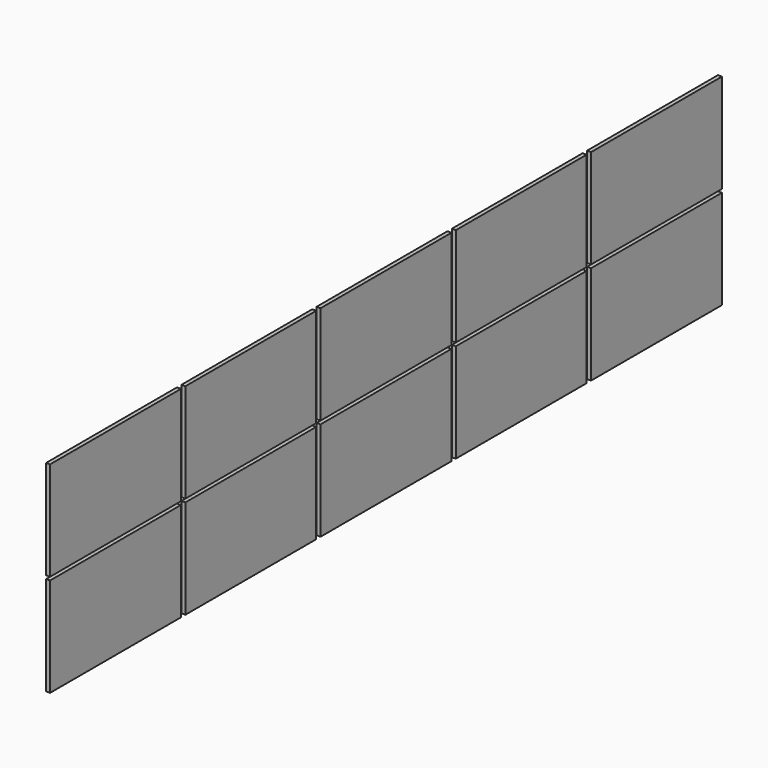
from build123d import *

# Parameters (mm, degrees)
CYLINDER003_R           = 4.5
CYLINDER003_DEPTH       = 10
CYLINDER003_PITCH_ANGLE = 90
CYLINDER002_R           = 4.5
CYLINDER002_DEPTH       = 10
CYLINDER002_PITCH_ANGLE = 90
CYLINDER001_R           = 4.5
CYLINDER001_DEPTH       = 10
CYLINDER001_PITCH_ANGLE = 90
CYLINDER_R              = 4.5
CYLINDER_DEPTH          = 10
CYLINDER_PITCH_ANGLE    = 90
SKETCH002_W             = 970
SKETCH002_H             = 1618
PAD002_DEPTH            = 27
SKETCH001_W             = 922
SKETCH001_H             = 1570
PAD001_DEPTH            = 20
SKETCH_W                = 992
SKETCH_H                = 1640
PAD_DEPTH               = 40
CUT003_ROLL_ANGLE       = 90
ARRAY_Y_COUNT           = 5
ARRAY_Y_PITCH           = 1695
ARRAY_Z_COUNT           = 2
ARRAY_Z_PITCH           = 1025


with BuildPart() as cylinder003:
    # Cylinder003 → Cylinder003 (new body)
    with BuildSketch(Plane.XY):
        Circle(CYLINDER003_R)
    extrude(amount=CYLINDER003_DEPTH)


with BuildPart() as cylinder003_1:
    # Cylinder003 pitch: moved
    add(cylinder003.part.rotate(Axis((0, 0, 0), (0, 1, 0)), CYLINDER003_PITCH_ANGLE))


with BuildPart() as cylinder003_2:
    # Cylinder003 placement: moved
    add(cylinder003_1.part.moved(Location((0, 25, 1220))))


with BuildPart() as fusion001:
    # Cylinder002 → Cylinder002 (new body)
    with BuildSketch(Plane.XY):
        Circle(CYLINDER002_R)
    extrude(amount=CYLINDER002_DEPTH)


with BuildPart() as fusion001_1:
    # Cylinder002 pitch: moved
    add(fusion001.part.rotate(Axis((0, 0, 0), (0, 1, 0)), CYLINDER002_PITCH_ANGLE))


with BuildPart() as fusion001_2:
    # Cylinder002 placement: moved
    add(fusion001_1.part.moved(Location((0, 25, 420))))

    # Fusion001: union Cylinder003
    add(cylinder003_2.part)


with BuildPart() as fusion001_3:
    # Fusion001 placement: moved
    add(fusion001_2.part.moved(Location((0, 942, 0))))


with BuildPart() as cylinder001:
    # Cylinder001 → Cylinder001 (new body)
    with BuildSketch(Plane.XY):
        Circle(CYLINDER001_R)
    extrude(amount=CYLINDER001_DEPTH)


with BuildPart() as cylinder001_1:
    # Cylinder001 pitch: moved
    add(cylinder001.part.rotate(Axis((0, 0, 0), (0, 1, 0)), CYLINDER001_PITCH_ANGLE))


with BuildPart() as cylinder001_2:
    # Cylinder001 placement: moved
    add(cylinder001_1.part.moved(Location((0, 25, 1220))))


with BuildPart() as fusion:
    # Cylinder → Cylinder (new body)
    with BuildSketch(Plane.XY):
        Circle(CYLINDER_R)
    extrude(amount=CYLINDER_DEPTH)


with BuildPart() as fusion_1:
    # Cylinder pitch: moved
    add(fusion.part.rotate(Axis((0, 0, 0), (0, 1, 0)), CYLINDER_PITCH_ANGLE))


with BuildPart() as fusion_2:
    # Cylinder placement: moved
    add(fusion_1.part.moved(Location((0, 25, 420))))

    # Fusion: union Cylinder001
    add(cylinder001_2.part)


with BuildPart() as obj1:
    # Sketch002 → Pad002 (new body)
    with BuildSketch(Plane.YZ.offset(3)):
        with Locations((496, 820)):
            Rectangle(SKETCH002_W, SKETCH002_H)
    extrude(amount=PAD002_DEPTH)


with BuildPart() as obj2:
    # Sketch001 → Pad001 (new body)
    with BuildSketch(Plane.YZ):
        with Locations((496, 820)):
            Rectangle(SKETCH001_W, SKETCH001_H)
    extrude(amount=PAD001_DEPTH)


with BuildPart() as obj3:
    # Sketch → Pad (new body)
    with BuildSketch(Plane.YZ):
        with Locations((496, 820)):
            Rectangle(SKETCH_W, SKETCH_H)
    extrude(amount=PAD_DEPTH)

    # Cut: cut obj2
    add(obj2.part, mode=Mode.SUBTRACT)

    # Cut001: cut obj1
    add(obj1.part, mode=Mode.SUBTRACT)

    # Cut002: cut Fusion
    add(fusion_2.part, mode=Mode.SUBTRACT)

    # Cut003: cut Fusion001
    add(fusion001_3.part, mode=Mode.SUBTRACT)


with BuildPart() as obj3_1:
    # Cut003 roll: moved
    add(obj3.part.rotate(Axis((0, 0, 0), (1, 0, 0)), CUT003_ROLL_ANGLE))


with BuildPart() as obj3_2:
    # Cut003 placement: moved
    add(obj3_1.part.moved(Location((0, -1305.59, 0))))

    # Array Y: obj3_5


with BuildPart() as obj3_3:
    add(obj3_2.part)
    with Locations(*[(0, i * ARRAY_Y_PITCH, 0) for i in range(1, ARRAY_Y_COUNT)]):
        add(obj3_2.part)

    # Array Z: obj3_2


with BuildPart() as obj3_4:
    add(obj3_3.part)
    with Locations(*[(0, 0, i * ARRAY_Z_PITCH) for i in range(1, ARRAY_Z_COUNT)]):
        add(obj3_3.part)


with BuildPart() as obj3_5:
    # Array placement: moved
    add(obj3_4.part.moved(Location((117.5, 3050.59, 483))))


solid = obj3_5.part
